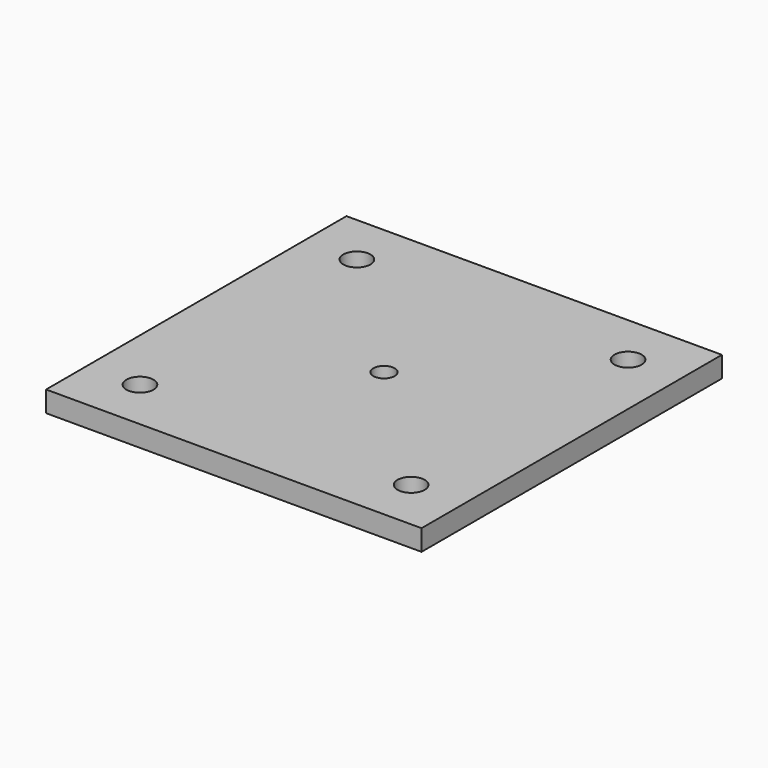
from build123d import *

# Parameters (mm, degrees)
F0_W     = 90
F0_H     = 90
F1_DEPTH = 5
F2_D     = 6.5
F3_D     = 5.1054


with BuildPart() as f1:
    # F0 (on Top) → F1 (new body)
    with BuildSketch(Plane.XY):
        Rectangle(F0_W, F0_H)
    extrude(amount=F1_DEPTH)

    # F2 (through all)
    with Locations(Plane(origin=(0, 0, 0), x_dir=(1, 0, 0), z_dir=(0, 0, -1))):
        with Locations((-32.5, -32.5), (32.5, -32.5), (32.5, 32.5), (-32.5, 32.5)):
            Hole(F2_D / 2)

    # F3 (through all)
    with Locations(Plane(origin=(0, 0, 0), x_dir=(1, 0, 0), z_dir=(0, 0, -1))):
        with Locations((0, 0)):
            Hole(F3_D / 2)


solid = f1.part
